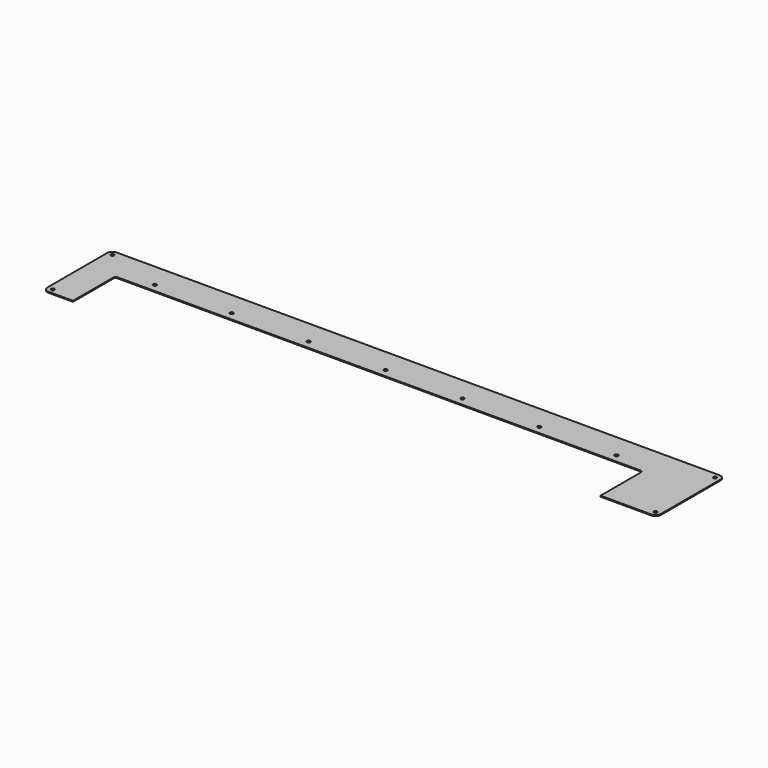
from build123d import *

# Parameters (mm, degrees)
SKETCH_R            = 2.5
PAD_DEPTH           = 1.5
SKETCH001_R         = 2.65
HOLE_DEPTH          = 25
LINEARPATTERN_COUNT = 7
LINEARPATTERN_PITCH = 116.666667


with BuildPart() as part:
    # Sketch → Pad (new body)
    with BuildSketch(Plane.XY):
        with BuildLine():
            Line((0, -3), (0, -80))
            Line((-37, -80), (0, -80))
            ThreePointArc((-45, -72), (-42.656854, -77.656854), (-37, -80))
            Line((-45, -72), (-45, 41))
            ThreePointArc((-37, 49), (-42.656854, 46.656854), (-45, 41))
            Line((-37, 49), (877, 49))
            ThreePointArc((885, 41), (882.656854, 46.656854), (877, 49))
            Line((885, 41), (885, -72))
            ThreePointArc((877, -80), (882.656854, -77.656854), (885, -72))
            Line((877, -80), (800, -80))
            Line((800, -80), (800, -3))
            ThreePointArc((800, -3), (799.12132, -0.87868), (797, 0))
            Line((797, 0), (3, 0))
            ThreePointArc((3, 0), (0.87868, -0.87868), (0, -3))
        make_face()
        with Locations((-37, 41)):
            Circle(SKETCH_R, mode=Mode.SUBTRACT)
        with Locations((-37, -72)):
            Circle(SKETCH_R, mode=Mode.SUBTRACT)
        with Locations((877, -72)):
            Circle(SKETCH_R, mode=Mode.SUBTRACT)
        with Locations((877, 41)):
            Circle(SKETCH_R, mode=Mode.SUBTRACT)
    extrude(amount=PAD_DEPTH)

    # Sketch001 → Hole (cut)
    with BuildSketch(Plane.XY.offset(2)):
        with Locations((50, 12.5)):
            Circle(SKETCH001_R)
    hole = extrude(amount=-HOLE_DEPTH, mode=Mode.SUBTRACT)

    # LinearPattern: Hole ×7
    with Locations(*[(i * LINEARPATTERN_PITCH, 0, 0) for i in range(1, LINEARPATTERN_COUNT)]):
        add(hole, mode=Mode.SUBTRACT)


solid = part.part
